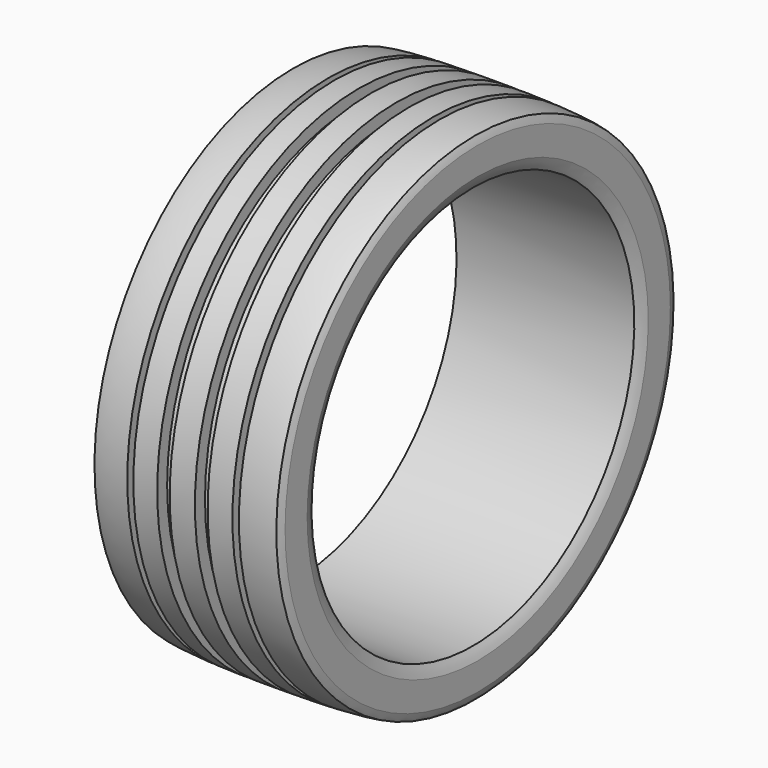
from build123d import *


with BuildPart() as f1:
    # F0 (on Front) → F1 (revolve)
    with BuildSketch(Plane.XZ):
        with BuildLine():
            Line((-7.05, 0), (0, 0))
            Line((0, 0), (7.05, 0))
            ThreePointArc((7.05, 0), (7.2665483594, 0.4422962816), (7.4278539327, 0.9075915691))
            Line((7.4278539327, 0.9075915691), (7.4278539327, 2))
            Line((7.4278539327, 2), (7.4278539327, 3.0924084309))
            ThreePointArc((7.4278539327, 3.0924084309), (7.3308207049, 3.3933247152), (7.210625321, 3.6857612504))
            add(Edge.make_bspline(
                [(7.210625321, 3.6857612504), (6.5098581638, 3.8287803398), (4.4278539327, 3.9166045726)],
                knots=[0.274962026, 0.274962026, 0.274962026, 0.9384907723, 0.9384907723, 0.9384907723], degree=2, weights=[1, 0.9454691385, 1]))
            Line((4.4278539327, 3.9166045726), (4.4278539327, 2.935966337))
            Line((4.4278539327, 2.935966337), (3.9278539327, 2.935966337))
            Line((3.9278539327, 2.935966337), (3.9278539327, 3.935966337))
            add(Edge.make_bspline(
                [(3.9278539327, 3.935966337), (3.0234841103, 3.96802339), (2, 3.9843463254)],
                knots=[1.0189400728, 1.0189400728, 1.0189400728, 1.3005703192, 1.3005703192, 1.3005703192], degree=2, weights=[1, 0.9901019224, 1]))
            Line((2, 3.9843463254), (2, 2.9961403214))
            Line((2, 2.9961403214), (1, 2.9961403214))
            Line((1, 2.9961403214), (1, 3.9961403214))
            add(Edge.make_bspline(
                [(1, 3.9961403214), (0.502246995, 4), (0, 4)],
                knots=[1.4369221717, 1.4369221717, 1.4369221717, 1.5707963268, 1.5707963268, 1.5707963268], degree=2, weights=[1, 0.9977605502, 1]))
            add(Edge.make_bspline(
                [(0, 4), (-0.502246995, 4), (-1, 3.9961403214)],
                knots=[4.7123889804, 4.7123889804, 4.7123889804, 4.8462631355, 4.8462631355, 4.8462631355], degree=2, weights=[1, 0.9977605502, 1]))
            Line((-1, 3.9961403214), (-1, 2.9961403214))
            Line((-1, 2.9961403214), (-2, 2.9961403214))
            Line((-2, 2.9961403214), (-2, 3.9843463254))
            add(Edge.make_bspline(
                [(-2, 3.9843463254), (-3.0234841103, 3.96802339), (-3.9278539327, 3.935966337)],
                knots=[4.982614988, 4.982614988, 4.982614988, 5.2642452344, 5.2642452344, 5.2642452344], degree=2, weights=[1, 0.9901019224, 1]))
            Line((-3.9278539327, 3.935966337), (-3.9278539327, 2.935966337))
            Line((-3.9278539327, 2.935966337), (-4.4278539327, 2.935966337))
            Line((-4.4278539327, 2.935966337), (-4.4278539327, 3.9166045726))
            add(Edge.make_bspline(
                [(-4.4278539327, 3.9166045726), (-6.5098581638, 3.8287803398), (-7.210625321, 3.6857612504)],
                knots=[5.3446945349, 5.3446945349, 5.3446945349, 6.0082232811, 6.0082232811, 6.0082232811], degree=2, weights=[1, 0.9454691385, 1]))
            ThreePointArc((-7.210625321, 3.6857612504), (-7.3308207049, 3.3933247152), (-7.4278539327, 3.0924084309))
            Line((-7.4278539327, 3.0924084309), (-7.4278539327, 2))
            Line((-7.4278539327, 2), (-7.4278539327, 0.9075915691))
            ThreePointArc((-7.4278539327, 0.9075915691), (-7.2665483594, 0.4422962816), (-7.05, 0))
        make_face()
    revolve(axis=Axis((2.2943979129, 0, -16), (1, 0, 0)))


solid = f1.part
